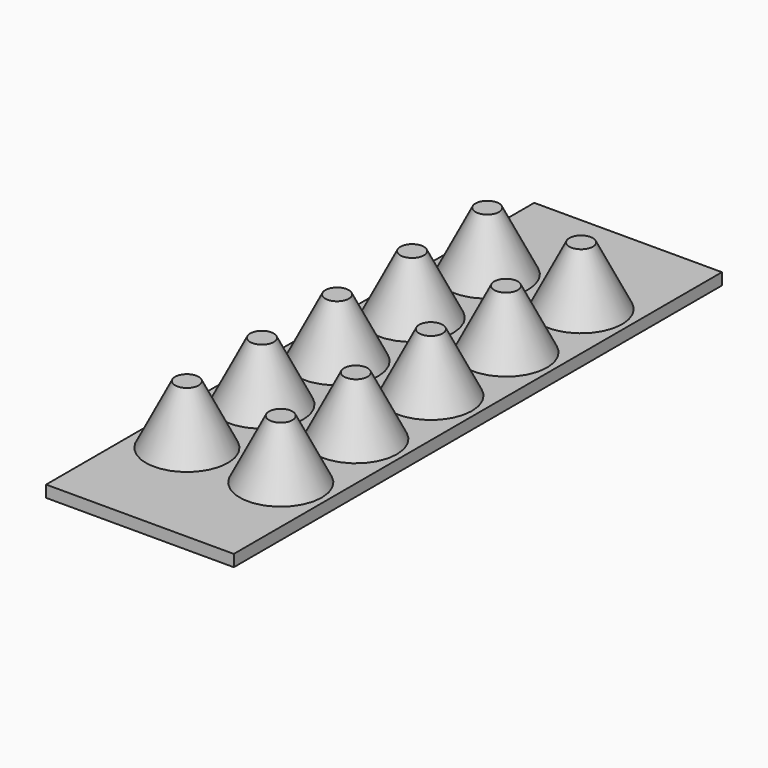
from build123d import *

# Parameters (mm, degrees)
BOX_W     = 16
BOX_H     = 52
BOX_DEPTH = 1


with BuildPart() as cubo:
    # Box → Box (new body)
    with BuildSketch(Plane.XY):
        with Locations((8, 26)):
            Rectangle(BOX_W, BOX_H)
    extrude(amount=BOX_DEPTH)


with BuildPart() as cono:
    # Cone → Cone (revolve)
    with BuildSketch(Plane(origin=(4, 10, 0), x_dir=(1, 0, 0), z_dir=(0, -1, 0))):
        Polygon((0, 0), (4, 0), (1, 6), (0, 6), align=None)
    revolve(axis=Axis((4, 10, 0), (0, 0, 1)))


with BuildPart() as cono001:
    # Cone001 → Cone001 (revolve)
    with BuildSketch(Plane(origin=(12, 10, 0), x_dir=(1, 0, 0), z_dir=(0, -1, 0))):
        Polygon((0, 0), (4, 0), (1, 6), (0, 6), align=None)
    revolve(axis=Axis((12, 10, 0), (0, 0, 1)))


with BuildPart() as cono002:
    # Cone002 → Cone002 (revolve)
    with BuildSketch(Plane(origin=(4, 18, 0), x_dir=(1, 0, 0), z_dir=(0, -1, 0))):
        Polygon((0, 0), (4, 0), (1, 6), (0, 6), align=None)
    revolve(axis=Axis((4, 18, 0), (0, 0, 1)))


with BuildPart() as cono003:
    # Cone003 → Cone003 (revolve)
    with BuildSketch(Plane(origin=(12, 18, 0), x_dir=(1, 0, 0), z_dir=(0, -1, 0))):
        Polygon((0, 0), (4, 0), (1, 6), (0, 6), align=None)
    revolve(axis=Axis((12, 18, 0), (0, 0, 1)))


with BuildPart() as cono004:
    # Cone004 → Cone004 (revolve)
    with BuildSketch(Plane(origin=(4, 26, 0), x_dir=(1, 0, 0), z_dir=(0, -1, 0))):
        Polygon((0, 0), (4, 0), (1, 6), (0, 6), align=None)
    revolve(axis=Axis((4, 26, 0), (0, 0, 1)))


with BuildPart() as cono005:
    # Cone005 → Cone005 (revolve)
    with BuildSketch(Plane(origin=(12, 26, 0), x_dir=(1, 0, 0), z_dir=(0, -1, 0))):
        Polygon((0, 0), (4, 0), (1, 6), (0, 6), align=None)
    revolve(axis=Axis((12, 26, 0), (0, 0, 1)))


with BuildPart() as cono006:
    # Cone006 → Cone006 (revolve)
    with BuildSketch(Plane(origin=(4, 34, 0), x_dir=(1, 0, 0), z_dir=(0, -1, 0))):
        Polygon((0, 0), (4, 0), (1, 6), (0, 6), align=None)
    revolve(axis=Axis((4, 34, 0), (0, 0, 1)))


with BuildPart() as cono007:
    # Cone007 → Cone007 (revolve)
    with BuildSketch(Plane(origin=(12, 34, 0), x_dir=(1, 0, 0), z_dir=(0, -1, 0))):
        Polygon((0, 0), (4, 0), (1, 6), (0, 6), align=None)
    revolve(axis=Axis((12, 34, 0), (0, 0, 1)))


with BuildPart() as cono008:
    # Cone008 → Cone008 (revolve)
    with BuildSketch(Plane(origin=(4, 42, 0), x_dir=(1, 0, 0), z_dir=(0, -1, 0))):
        Polygon((0, 0), (4, 0), (1, 6), (0, 6), align=None)
    revolve(axis=Axis((4, 42, 0), (0, 0, 1)))


with BuildPart() as cono009:
    # Cone009 → Cone009 (revolve)
    with BuildSketch(Plane(origin=(12, 42, 0), x_dir=(1, 0, 0), z_dir=(0, -1, 0))):
        Polygon((0, 0), (4, 0), (1, 6), (0, 6), align=None)
    revolve(axis=Axis((12, 42, 0), (0, 0, 1)))


solid = Compound([cubo.part, cono.part, cono001.part, cono002.part, cono003.part, cono004.part, cono005.part, cono006.part, cono007.part, cono008.part, cono009.part])
